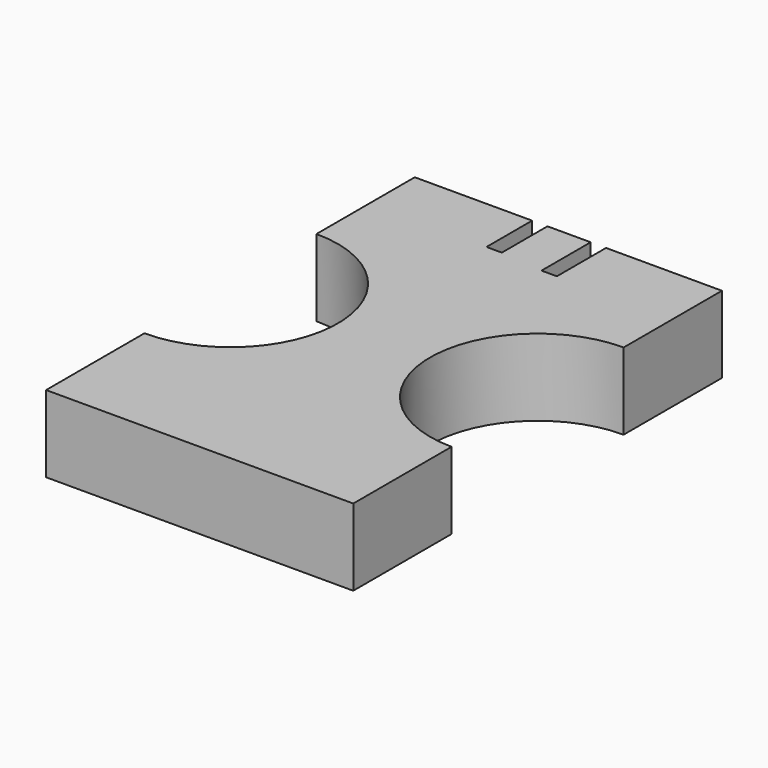
from build123d import *

# Parameters (mm, degrees)
F0_W     = 50.8
F0_H     = 76.2
F1_DEPTH = 12.7
F2_R     = 17.78
F3_DEPTH = 25.4
F4_R     = 17.78
F5_DEPTH = 25.4
F6_W     = 2.54
F6_H     = 10.16
F7_DEPTH = 25.4
F8_W     = 2.54
F8_H     = 10.16
F9_DEPTH = 25.4


with BuildPart() as f1:
    # F0 (on Top) → F1 (new body)
    with BuildSketch(Plane.XY):
        Rectangle(F0_W, F0_H)
    extrude(amount=F1_DEPTH)

    # F2 (on face) → F3 (cut)
    with BuildSketch(Plane.XY.offset(12.7)):
        with Locations((25.4, 0)):
            Circle(F2_R)
    extrude(amount=-F3_DEPTH, mode=Mode.SUBTRACT)

    # F4 (on face) → F5 (cut)
    with BuildSketch(Plane.XY.offset(12.7)):
        with Locations((-25.4, 0)):
            Circle(F4_R)
    extrude(amount=-F5_DEPTH, mode=Mode.SUBTRACT)

    # F6 (on face) → F7 (cut)
    with BuildSketch(Plane.XY.offset(12.7)):
        with Locations((4.96473, 33.02)):
            Rectangle(F6_W, F6_H)
    extrude(amount=-F7_DEPTH, mode=Mode.SUBTRACT)

    # F8 (on face) → F9 (cut)
    with BuildSketch(Plane.XY.offset(12.7)):
        with Locations((-4.718008, 33.746003)):
            Rectangle(F8_W, F8_H)
    extrude(amount=-F9_DEPTH, mode=Mode.SUBTRACT)


solid = f1.part
